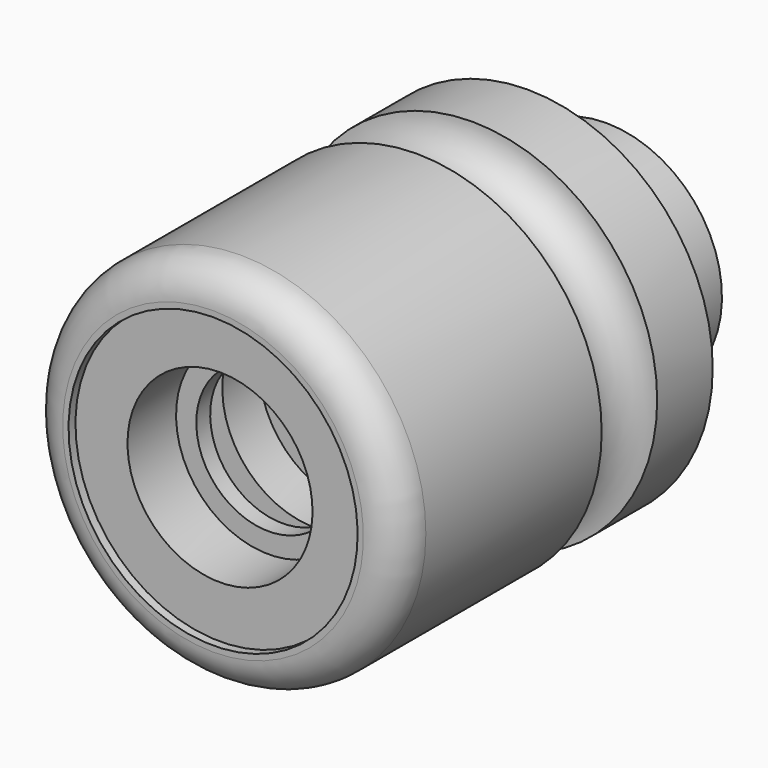
from build123d import *

# Parameters (mm, degrees)
F2_R = 6


with BuildPart() as f1:
    # F0 (on Right) → F1 (revolve)
    with BuildSketch(Plane.YZ):
        with BuildLine():
            Line((30, 6), (88, 6))
            Line((88, 6), (88, 16))
            Line((88, 16), (85, 16))
            Line((85, 16), (85, 20))
            Line((85, 20), (68, 20))
            Line((68, 20), (68, 32))
            Line((68, 32), (56, 32))
            ThreePointArc((56, 32), (50, 26), (44, 32))
            Line((44, 32), (0, 32))
            Line((0, 32), (0, 25))
            Line((0, 25), (1.5, 25))
            Line((1.5, 25), (1.5, 16))
            Line((1.5, 16), (12, 16))
            Line((12, 16), (12, 12.5))
            Line((12, 12.5), (15, 12.5))
            Line((15, 12.5), (15, 20.5))
            Line((15, 20.5), (22, 20.5))
            Line((22, 20.5), (22, 16))
            Line((22, 16), (30, 16))
            Line((30, 16), (30, 6))
        make_face()
    revolve(axis=Axis((0, 49.247101, 0), (0, 1, 0)))

    # F2
    f2_edges = [f1.edges().sort_by_distance(p)[0] for p in [
        (0, 0, -32),
    ]]
    fillet(f2_edges, radius=F2_R)


solid = f1.part
